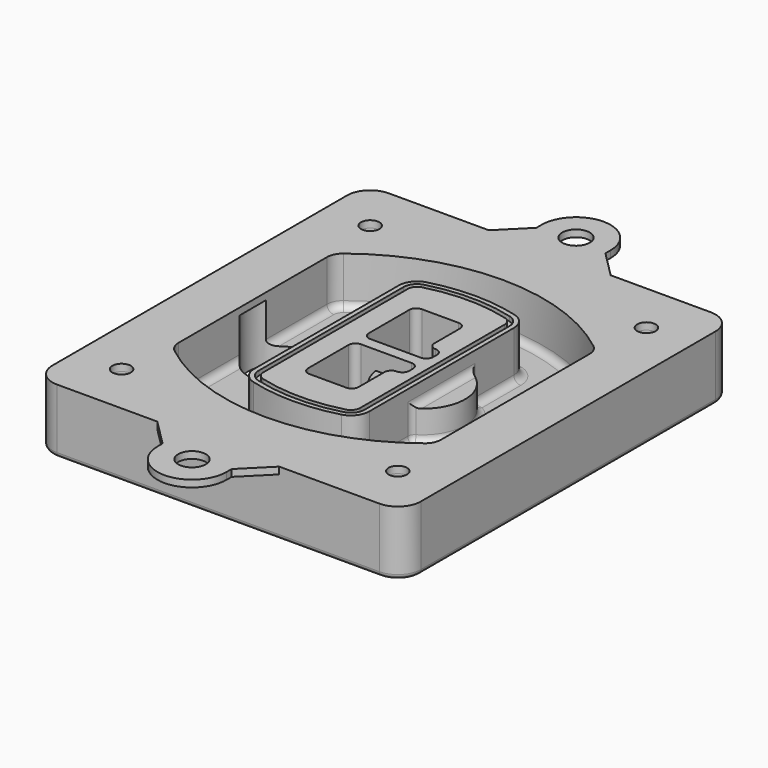
from build123d import *

# Parameters (mm, degrees)
F0_R      = 4
F1_DEPTH  = 25
F2_DEPTH  = 3
F3_DEPTH  = 18
F5_DEPTH  = 21
F6_DEPTH  = 2
F8_DEPTH  = 20
F9_DEPTH  = 16
F10_DEPTH = 25
F7_R      = 6
F7_R_2    = 4
F11_DEPTH = 6
F13_DEPTH = 9
F14_R     = 3
F15_R     = 2
F16_R     = 6
F16_R_2   = 4
F17_DEPTH = 3


with BuildPart() as f1:
    # F0 (on Top) → F1 (new body)
    with BuildSketch(Plane.XY):
        with BuildLine():
            ThreePointArc((-80, -80), (-77.0710678119, -87.0710678119), (-70, -90))
            Line((-70, -90), (70, -90))
            ThreePointArc((70, -90), (77.0710678119, -87.0710678119), (80, -80))
            Line((80, -80), (80, 80))
            ThreePointArc((80, 80), (77.0710678119, 87.0710678119), (70, 90))
            Line((70, 90), (-70, 90))
            ThreePointArc((-70, 90), (-77.0710678119, 87.0710678119), (-80, 80))
            Line((-80, 80), (-80, -80))
        make_face()
        with Locations((-60, -67.5)):
            Circle(F0_R, mode=Mode.SUBTRACT)
        with Locations((60, -67.5)):
            Circle(F0_R, mode=Mode.SUBTRACT)
        with Locations((-60, 67.5)):
            Circle(F0_R, mode=Mode.SUBTRACT)
        with BuildLine():
            ThreePointArc((-64, 40.2934422872), (-62.5820384798, 46.4328484224), (-58.6153846154, 51.3286200352))
            ThreePointArc((-58.6153846154, 51.3286200352), (0, 71.5), (58.6153846154, 51.3286200352))
            ThreePointArc((58.6153846154, 51.3286200352), (62.5820384798, 46.4328484224), (64, 40.2934422872))
            Line((64, 40.2934422872), (64, -40.2934422872))
            ThreePointArc((64, -40.2934422872), (62.5820384798, -46.4328484224), (58.6153846154, -51.3286200352))
            ThreePointArc((58.6153846154, -51.3286200352), (0, -71.5), (-58.6153846154, -51.3286200352))
            ThreePointArc((-58.6153846154, -51.3286200352), (-62.5820384798, -46.4328484224), (-64, -40.2934422872))
            Line((-64, -40.2934422872), (-64, 40.2934422872))
        make_face(mode=Mode.SUBTRACT)
        with Locations((60, 67.5)):
            Circle(F0_R, mode=Mode.SUBTRACT)
        with BuildLine():
            ThreePointArc((58.6153846154, 51.3286200352), (0, 71.5), (-58.6153846154, 51.3286200352))
            ThreePointArc((-58.6153846154, 51.3286200352), (-62.5820384798, 46.4328484224), (-64, 40.2934422872))
            Line((-64, 40.2934422872), (-64, -40.2934422872))
            ThreePointArc((-64, -40.2934422872), (-62.5820384798, -46.4328484224), (-58.6153846154, -51.3286200352))
            ThreePointArc((-58.6153846154, -51.3286200352), (0, -71.5), (58.6153846154, -51.3286200352))
            ThreePointArc((58.6153846154, -51.3286200352), (62.5820384798, -46.4328484224), (64, -40.2934422872))
            Line((64, -40.2934422872), (64, 40.2934422872))
            ThreePointArc((64, 40.2934422872), (62.5820384798, 46.4328484224), (58.6153846154, 51.3286200352))
        make_face()
        with BuildLine():
            Line((-60, -40.2934422872), (-60, 40.2934422872))
            ThreePointArc((-60, 40.2934422872), (-58.9871703427, 44.6787323838), (-56.1538461538, 48.1757121072))
            ThreePointArc((-56.1538461538, 48.1757121072), (0, 67.5), (56.1538461538, 48.1757121072))
            ThreePointArc((56.1538461538, 48.1757121072), (58.9871703427, 44.6787323838), (60, 40.2934422872))
            Line((60, 40.2934422872), (60, -40.2934422872))
            ThreePointArc((60, -40.2934422872), (58.9871703427, -44.6787323838), (56.1538461538, -48.1757121072))
            ThreePointArc((56.1538461538, -48.1757121072), (0, -67.5), (-56.1538461538, -48.1757121072))
            ThreePointArc((-56.1538461538, -48.1757121072), (-58.9871703427, -44.6787323838), (-60, -40.2934422872))
        make_face(mode=Mode.SUBTRACT)
        with BuildLine():
            ThreePointArc((-56.1538461538, 48.1757121072), (-58.9871703427, 44.6787323838), (-60, 40.2934422872))
            Line((-60, 40.2934422872), (-60, -40.2934422872))
            ThreePointArc((-60, -40.2934422872), (-58.9871703427, -44.6787323838), (-56.1538461538, -48.1757121072))
            ThreePointArc((-56.1538461538, -48.1757121072), (0, -67.5), (56.1538461538, -48.1757121072))
            ThreePointArc((56.1538461538, -48.1757121072), (58.9871703427, -44.6787323838), (60, -40.2934422872))
            Line((60, -40.2934422872), (60, 40.2934422872))
            ThreePointArc((60, 40.2934422872), (58.9871703427, 44.6787323838), (56.1538461538, 48.1757121072))
            ThreePointArc((56.1538461538, 48.1757121072), (0, 67.5), (-56.1538461538, 48.1757121072))
        make_face()
        with BuildLine():
            ThreePointArc((54.3076923077, 45.8110311612), (56.2910192399, 43.3631453548), (57, 40.2934422872))
            Line((57, 40.2934422872), (57, -40.2934422872))
            ThreePointArc((57, -40.2934422872), (56.2910192399, -43.3631453548), (54.3076923077, -45.8110311612))
            ThreePointArc((54.3076923077, -45.8110311612), (0, -64.5), (-54.3076923077, -45.8110311612))
            ThreePointArc((-54.3076923077, -45.8110311612), (-56.2910192399, -43.3631453548), (-57, -40.2934422872))
            Line((-57, -40.2934422872), (-57, 40.2934422872))
            ThreePointArc((-57, 40.2934422872), (-56.2910192399, 43.3631453548), (-54.3076923077, 45.8110311612))
            ThreePointArc((-54.3076923077, 45.8110311612), (0, 64.5), (54.3076923077, 45.8110311612))
        make_face(mode=Mode.SUBTRACT)
        with BuildLine():
            Line((57, -40.2934422872), (57, 40.2934422872))
            ThreePointArc((57, 40.2934422872), (56.2910192399, 43.3631453548), (54.3076923077, 45.8110311612))
            ThreePointArc((54.3076923077, 45.8110311612), (0, 64.5), (-54.3076923077, 45.8110311612))
            ThreePointArc((-54.3076923077, 45.8110311612), (-56.2910192399, 43.3631453548), (-57, 40.2934422872))
            Line((-57, 40.2934422872), (-57, -40.2934422872))
            ThreePointArc((-57, -40.2934422872), (-56.2910192399, -43.3631453548), (-54.3076923077, -45.8110311612))
            ThreePointArc((-54.3076923077, -45.8110311612), (0, -64.5), (54.3076923077, -45.8110311612))
            ThreePointArc((54.3076923077, -45.8110311612), (56.2910192399, -43.3631453548), (57, -40.2934422872))
        make_face()
    extrude(amount=-F1_DEPTH)

    # F0 (on Top) → F2 (join)
    with BuildSketch(Plane.XY):
        with BuildLine():
            ThreePointArc((-56.1538461538, 48.1757121072), (-58.9871703427, 44.6787323838), (-60, 40.2934422872))
            Line((-60, 40.2934422872), (-60, -40.2934422872))
            ThreePointArc((-60, -40.2934422872), (-58.9871703427, -44.6787323838), (-56.1538461538, -48.1757121072))
            ThreePointArc((-56.1538461538, -48.1757121072), (0, -67.5), (56.1538461538, -48.1757121072))
            ThreePointArc((56.1538461538, -48.1757121072), (58.9871703427, -44.6787323838), (60, -40.2934422872))
            Line((60, -40.2934422872), (60, 40.2934422872))
            ThreePointArc((60, 40.2934422872), (58.9871703427, 44.6787323838), (56.1538461538, 48.1757121072))
            ThreePointArc((56.1538461538, 48.1757121072), (0, 67.5), (-56.1538461538, 48.1757121072))
        make_face()
        with BuildLine():
            ThreePointArc((54.3076923077, 45.8110311612), (56.2910192399, 43.3631453548), (57, 40.2934422872))
            Line((57, 40.2934422872), (57, -40.2934422872))
            ThreePointArc((57, -40.2934422872), (56.2910192399, -43.3631453548), (54.3076923077, -45.8110311612))
            ThreePointArc((54.3076923077, -45.8110311612), (0, -64.5), (-54.3076923077, -45.8110311612))
            ThreePointArc((-54.3076923077, -45.8110311612), (-56.2910192399, -43.3631453548), (-57, -40.2934422872))
            Line((-57, -40.2934422872), (-57, 40.2934422872))
            ThreePointArc((-57, 40.2934422872), (-56.2910192399, 43.3631453548), (-54.3076923077, 45.8110311612))
            ThreePointArc((-54.3076923077, 45.8110311612), (0, 64.5), (54.3076923077, 45.8110311612))
        make_face(mode=Mode.SUBTRACT)
    extrude(amount=F2_DEPTH)

    # F0 (on Top) → F3 (cut)
    with BuildSketch(Plane.XY):
        with BuildLine():
            Line((57, -40.2934422872), (57, 40.2934422872))
            ThreePointArc((57, 40.2934422872), (56.2910192399, 43.3631453548), (54.3076923077, 45.8110311612))
            ThreePointArc((54.3076923077, 45.8110311612), (0, 64.5), (-54.3076923077, 45.8110311612))
            ThreePointArc((-54.3076923077, 45.8110311612), (-56.2910192399, 43.3631453548), (-57, 40.2934422872))
            Line((-57, 40.2934422872), (-57, -40.2934422872))
            ThreePointArc((-57, -40.2934422872), (-56.2910192399, -43.3631453548), (-54.3076923077, -45.8110311612))
            ThreePointArc((-54.3076923077, -45.8110311612), (0, -64.5), (54.3076923077, -45.8110311612))
            ThreePointArc((54.3076923077, -45.8110311612), (56.2910192399, -43.3631453548), (57, -40.2934422872))
        make_face()
    extrude(amount=-F3_DEPTH, mode=Mode.SUBTRACT)

    # F4 (on face) → F5 (join, through all)
    with BuildSketch(Plane.XY.offset(3)):
        with BuildLine():
            ThreePointArc((-25, -39.2465276821), (-23.3511545998, -44.1109737193), (-19.0842911877, -46.9702398883))
            ThreePointArc((-19.0842911877, -46.9702398883), (0, -49.5), (19.0842911877, -46.9702398883))
            ThreePointArc((19.0842911877, -46.9702398883), (23.3511545998, -44.1109737193), (25, -39.2465276821))
            Line((25, -39.2465276821), (25, 39.2465276821))
            ThreePointArc((25, 39.2465276821), (23.3511545998, 44.1109737193), (19.0842911877, 46.9702398883))
            ThreePointArc((19.0842911877, 46.9702398883), (0, 49.5), (-19.0842911877, 46.9702398883))
            ThreePointArc((-19.0842911877, 46.9702398883), (-23.3511545998, 44.1109737193), (-25, 39.2465276821))
            Line((-25, 39.2465276821), (-25, -39.2465276821))
        make_face()
        with BuildLine():
            ThreePointArc((18.5632183908, 45.0393118368), (21.7633659499, 42.89486221), (23, 39.2465276821))
            Line((23, 39.2465276821), (23, -39.2465276821))
            ThreePointArc((23, -39.2465276821), (21.7633659499, -42.89486221), (18.5632183908, -45.0393118368))
            ThreePointArc((18.5632183908, -45.0393118368), (0, -47.5), (-18.5632183908, -45.0393118368))
            ThreePointArc((-18.5632183908, -45.0393118368), (-21.7633659499, -42.89486221), (-23, -39.2465276821))
            Line((-23, -39.2465276821), (-23, 39.2465276821))
            ThreePointArc((-23, 39.2465276821), (-21.7633659499, 42.89486221), (-18.5632183908, 45.0393118368))
            ThreePointArc((-18.5632183908, 45.0393118368), (0, 47.5), (18.5632183908, 45.0393118368))
        make_face(mode=Mode.SUBTRACT)
        with BuildLine():
            Line((23, -39.2465276821), (23, 39.2465276821))
            ThreePointArc((23, 39.2465276821), (21.7633659499, 42.89486221), (18.5632183908, 45.0393118368))
            ThreePointArc((18.5632183908, 45.0393118368), (0, 47.5), (-18.5632183908, 45.0393118368))
            ThreePointArc((-18.5632183908, 45.0393118368), (-21.7633659499, 42.89486221), (-23, 39.2465276821))
            Line((-23, 39.2465276821), (-23, -39.2465276821))
            ThreePointArc((-23, -39.2465276821), (-21.7633659499, -42.89486221), (-18.5632183908, -45.0393118368))
            ThreePointArc((-18.5632183908, -45.0393118368), (0, -47.5), (18.5632183908, -45.0393118368))
            ThreePointArc((18.5632183908, -45.0393118368), (21.7633659499, -42.89486221), (23, -39.2465276821))
        make_face()
        with BuildLine():
            ThreePointArc((18.0421455939, 43.1083837852), (20.1755772999, 41.6787507007), (21, 39.2465276821))
            Line((21, 39.2465276821), (21, -39.2465276821))
            ThreePointArc((21, -39.2465276821), (20.1755772999, -41.6787507007), (18.0421455939, -43.1083837852))
            ThreePointArc((18.0421455939, -43.1083837852), (0, -45.5), (-18.0421455939, -43.1083837852))
            ThreePointArc((-18.0421455939, -43.1083837852), (-20.1755772999, -41.6787507007), (-21, -39.2465276821))
            Line((-21, -39.2465276821), (-21, 39.2465276821))
            ThreePointArc((-21, 39.2465276821), (-20.1755772999, 41.6787507007), (-18.0421455939, 43.1083837852))
            ThreePointArc((-18.0421455939, 43.1083837852), (0, 45.5), (18.0421455939, 43.1083837852))
        make_face(mode=Mode.SUBTRACT)
        with BuildLine():
            Line((21, -39.2465276821), (21, 39.2465276821))
            ThreePointArc((21, 39.2465276821), (20.1755772999, 41.6787507007), (18.0421455939, 43.1083837852))
            ThreePointArc((18.0421455939, 43.1083837852), (0, 45.5), (-18.0421455939, 43.1083837852))
            ThreePointArc((-18.0421455939, 43.1083837852), (-20.1755772999, 41.6787507007), (-21, 39.2465276821))
            Line((-21, 39.2465276821), (-21, -39.2465276821))
            ThreePointArc((-21, -39.2465276821), (-20.1755772999, -41.6787507007), (-18.0421455939, -43.1083837852))
            ThreePointArc((-18.0421455939, -43.1083837852), (0, -45.5), (18.0421455939, -43.1083837852))
            ThreePointArc((18.0421455939, -43.1083837852), (20.1755772999, -41.6787507007), (21, -39.2465276821))
        make_face()
        with BuildLine():
            Line((-8, -2.5), (14, -2.5))
            ThreePointArc((14, -2.5), (16.1213203436, -3.3786796564), (17, -5.5))
            Line((17, -5.5), (17, -7.5))
            ThreePointArc((17, -7.5), (16.1213203436, -9.6213203436), (14, -10.5))
            ThreePointArc((14, -10.5), (11.8786796564, -11.3786796564), (11, -13.5))
            Line((11, -13.5), (11, -27.5))
            ThreePointArc((11, -27.5), (10.1213203436, -29.6213203436), (8, -30.5))
            Line((8, -30.5), (-8, -30.5))
            ThreePointArc((-8, -30.5), (-10.1213203436, -29.6213203436), (-11, -27.5))
            Line((-11, -27.5), (-11, -5.5))
            ThreePointArc((-11, -5.5), (-10.1213203436, -3.3786796564), (-8, -2.5))
        make_face(mode=Mode.SUBTRACT)
        with BuildLine():
            ThreePointArc((-8, 2.5), (-10.1213203436, 3.3786796564), (-11, 5.5))
            Line((-11, 5.5), (-11, 27.5))
            ThreePointArc((-11, 27.5), (-10.1213203436, 29.6213203436), (-8, 30.5))
            Line((-8, 30.5), (8, 30.5))
            ThreePointArc((8, 30.5), (10.1213203436, 29.6213203436), (11, 27.5))
            Line((11, 27.5), (11, 13.5))
            ThreePointArc((11, 13.5), (11.8786796564, 11.3786796564), (14, 10.5))
            ThreePointArc((14, 10.5), (16.1213203436, 9.6213203436), (17, 7.5))
            Line((17, 7.5), (17, 5.5))
            ThreePointArc((17, 5.5), (16.1213203436, 3.3786796564), (14, 2.5))
            Line((14, 2.5), (-8, 2.5))
        make_face(mode=Mode.SUBTRACT)
    extrude(amount=-F5_DEPTH)

    # F4 (on face) → F6 (cut)
    with BuildSketch(Plane.XY.offset(3)):
        with BuildLine():
            Line((23, -39.2465276821), (23, 39.2465276821))
            ThreePointArc((23, 39.2465276821), (21.7633659499, 42.89486221), (18.5632183908, 45.0393118368))
            ThreePointArc((18.5632183908, 45.0393118368), (0, 47.5), (-18.5632183908, 45.0393118368))
            ThreePointArc((-18.5632183908, 45.0393118368), (-21.7633659499, 42.89486221), (-23, 39.2465276821))
            Line((-23, 39.2465276821), (-23, -39.2465276821))
            ThreePointArc((-23, -39.2465276821), (-21.7633659499, -42.89486221), (-18.5632183908, -45.0393118368))
            ThreePointArc((-18.5632183908, -45.0393118368), (0, -47.5), (18.5632183908, -45.0393118368))
            ThreePointArc((18.5632183908, -45.0393118368), (21.7633659499, -42.89486221), (23, -39.2465276821))
        make_face()
        with BuildLine():
            ThreePointArc((18.0421455939, 43.1083837852), (20.1755772999, 41.6787507007), (21, 39.2465276821))
            Line((21, 39.2465276821), (21, -39.2465276821))
            ThreePointArc((21, -39.2465276821), (20.1755772999, -41.6787507007), (18.0421455939, -43.1083837852))
            ThreePointArc((18.0421455939, -43.1083837852), (0, -45.5), (-18.0421455939, -43.1083837852))
            ThreePointArc((-18.0421455939, -43.1083837852), (-20.1755772999, -41.6787507007), (-21, -39.2465276821))
            Line((-21, -39.2465276821), (-21, 39.2465276821))
            ThreePointArc((-21, 39.2465276821), (-20.1755772999, 41.6787507007), (-18.0421455939, 43.1083837852))
            ThreePointArc((-18.0421455939, 43.1083837852), (0, 45.5), (18.0421455939, 43.1083837852))
        make_face(mode=Mode.SUBTRACT)
    extrude(amount=-F6_DEPTH, mode=Mode.SUBTRACT)

    # F7 (on face) → F8 (join)
    with BuildSketch(Plane(origin=(0, 0, -25), x_dir=(1, 0, 0), z_dir=(0, 0, -1))):
        with BuildLine():
            ThreePointArc((3.28842436, 0), (16.7567035675, 13.4682792075), (30.224982775, 0))
            Line((30.224982775, 0), (35.224982775, 0))
            ThreePointArc((35.224982775, 0), (16.7567035675, 18.4682792075), (-1.71157564, 0))
            Line((-1.71157564, 0), (3.28842436, 0))
        make_face()
        with BuildLine():
            Line((3.28842436, 0), (30.224982775, 0))
            ThreePointArc((30.224982775, 0), (16.7567035675, 13.4682792075), (3.28842436, 0))
        make_face()
        with BuildLine():
            ThreePointArc((3.28842436, 0), (16.7567035675, -13.4682792075), (30.224982775, 0))
            Line((30.224982775, 0), (3.28842436, 0))
        make_face()
        with BuildLine():
            Line((35.224982775, 0), (30.224982775, 0))
            ThreePointArc((30.224982775, 0), (16.7567035675, -13.4682792075), (3.28842436, 0))
            Line((3.28842436, 0), (-1.71157564, 0))
            ThreePointArc((-1.71157564, 0), (16.7567035675, -18.4682792075), (35.224982775, 0))
        make_face()
    extrude(amount=-F8_DEPTH)

    # F7 (on face) → F9 (cut)
    with BuildSketch(Plane(origin=(0, 0, -25), x_dir=(1, 0, 0), z_dir=(0, 0, -1))):
        with BuildLine():
            Line((3.28842436, 0), (30.224982775, 0))
            ThreePointArc((30.224982775, 0), (16.7567035675, 13.4682792075), (3.28842436, 0))
        make_face()
        with BuildLine():
            ThreePointArc((3.28842436, 0), (16.7567035675, -13.4682792075), (30.224982775, 0))
            Line((30.224982775, 0), (3.28842436, 0))
        make_face()
    extrude(amount=-F9_DEPTH, mode=Mode.SUBTRACT)

    # F7 (on face) → F10 (cut)
    with BuildSketch(Plane(origin=(0, 0, -25), x_dir=(1, 0, 0), z_dir=(0, 0, -1))):
        with BuildLine():
            Line((-59.0318229325, 0), (-32.0952645175, 0))
            ThreePointArc((-32.0952645175, 0), (-45.563543725, 13.4682792075), (-59.0318229325, 0))
        make_face()
        with BuildLine():
            ThreePointArc((-59.0318229325, 0), (-45.563543725, -13.4682792075), (-32.0952645175, 0))
            Line((-32.0952645175, 0), (-59.0318229325, 0))
        make_face()
    extrude(amount=-F10_DEPTH, mode=Mode.SUBTRACT)

    # F7 (on face) → F11 (cut)
    with BuildSketch(Plane(origin=(0, 0, -25), x_dir=(1, 0, 0), z_dir=(0, 0, -1))):
        with Locations((60, -67.5)):
            Circle(F7_R)
        with Locations((60, -67.5)):
            Circle(F7_R_2, mode=Mode.SUBTRACT)
        with Locations((60, -67.5)):
            Circle(F7_R)
        with Locations((60, -67.5)):
            Circle(F7_R_2, mode=Mode.SUBTRACT)
        with Locations((-60, -67.5)):
            Circle(F7_R)
        with Locations((-60, -67.5)):
            Circle(F7_R_2, mode=Mode.SUBTRACT)
        with Locations((-60, -67.5)):
            Circle(F7_R)
        with Locations((-60, -67.5)):
            Circle(F7_R_2, mode=Mode.SUBTRACT)
        with Locations((-60, 67.5)):
            Circle(F7_R)
        with Locations((-60, 67.5)):
            Circle(F7_R_2, mode=Mode.SUBTRACT)
        with Locations((-60, 67.5)):
            Circle(F7_R)
        with Locations((-60, 67.5)):
            Circle(F7_R_2, mode=Mode.SUBTRACT)
        with Locations((60, 67.5)):
            Circle(F7_R)
        with Locations((60, 67.5)):
            Circle(F7_R_2, mode=Mode.SUBTRACT)
        with Locations((60, 67.5)):
            Circle(F7_R)
        with Locations((60, 67.5)):
            Circle(F7_R_2, mode=Mode.SUBTRACT)
    extrude(amount=-F11_DEPTH, mode=Mode.SUBTRACT)

    # F12 (on face) → F13 (cut, through all)
    with BuildSketch(Plane(origin=(0, 0, -9), x_dir=(1, 0, 0), z_dir=(0, 0, -1))):
        with BuildLine():
            Line((11, 13.5), (11, 17.5481537753))
            ThreePointArc((11, 17.5481537753), (2.5696536419, 11.8239143813), (-1.5415842455, 2.5))
            Line((-1.5415842455, 2.5), (3.5224848595, 2.5))
            ThreePointArc((3.5224848595, 2.5), (6.1857188154, 8.3455872281), (11.2536447004, 12.2927168648))
            ThreePointArc((11.2536447004, 12.2927168648), (11.0640958889, 12.8831798879), (11, 13.5))
        make_face()
        with BuildLine():
            ThreePointArc((11.2536447004, -12.2927168648), (6.1857188154, -8.3455872281), (3.5224848595, -2.5))
            Line((3.5224848595, -2.5), (-1.5415842455, -2.5))
            ThreePointArc((-1.5415842455, -2.5), (2.5696536419, -11.8239143813), (11, -17.5481537753))
            Line((11, -17.5481537753), (11, -13.5))
            ThreePointArc((11, -13.5), (11.0640958889, -12.8831798879), (11.2536447004, -12.2927168648))
        make_face()
        with BuildLine():
            ThreePointArc((11.2536447004, 12.2927168648), (6.1857188154, 8.3455872281), (3.5224848595, 2.5))
            Line((3.5224848595, 2.5), (14, 2.5))
            ThreePointArc((14, 2.5), (16.1213203436, 3.3786796564), (17, 5.5))
            Line((17, 5.5), (17, 7.5))
            ThreePointArc((17, 7.5), (16.1213203436, 9.6213203436), (14, 10.5))
            ThreePointArc((14, 10.5), (12.3601599782, 10.9878446101), (11.2536447004, 12.2927168648))
        make_face()
        with BuildLine():
            Line((14, -2.5), (3.5224848595, -2.5))
            ThreePointArc((3.5224848595, -2.5), (6.1857188154, -8.3455872281), (11.2536447004, -12.2927168648))
            ThreePointArc((11.2536447004, -12.2927168648), (12.3601599782, -10.9878446101), (14, -10.5))
            ThreePointArc((14, -10.5), (16.1213203436, -9.6213203436), (17, -7.5))
            Line((17, -7.5), (17, -5.5))
            ThreePointArc((17, -5.5), (16.1213203436, -3.3786796564), (14, -2.5))
        make_face()
    extrude(amount=F13_DEPTH, mode=Mode.SUBTRACT)

    # F14
    f14_edges = [f1.edges().sort_by_distance(p)[0] for p in [
        (-57, -23.703476, -18),
        (-57, 23.703476, -18),
        (25, 0, -5),
        (25, 16.526506, -11.5),
        (25, -16.526506, -11.5),
        (25, -27.886517, -18),
        (35.224983, 0, -18),
    ]]
    fillet(f14_edges, radius=F14_R)

    # F15
    f15_edges = [f1.edges().sort_by_distance(p)[0] for p in [
        (0, -90, -25),
    ]]
    fillet(f15_edges, radius=F15_R)

    # F16 (on face) → F17 (join, through all)
    with BuildSketch(Plane.XY):
        with BuildLine():
            Line((15, 101.4723697625), (15, 104.25))
            ThreePointArc((15, 104.25), (0, 119.25), (-15, 104.25))
            Line((-15, 104.25), (-15, 101.4723697625))
            Line((-15, 101.4723697625), (-26.4723697625, 90))
            Line((-26.4723697625, 90), (26.4723697625, 90))
            Line((26.4723697625, 90), (15, 101.4723697625))
        make_face()
        with Locations((0, 104.25)):
            Circle(F16_R, mode=Mode.SUBTRACT)
        with BuildLine():
            Line((70, 90), (26.4723697625, 90))
            Line((26.4723697625, 90), (-26.4723697625, 90))
            Line((-26.4723697625, 90), (-70, 90))
            ThreePointArc((-70, 90), (-77.0710678119, 87.0710678119), (-80, 80))
            Line((-80, 80), (-80, -80))
            ThreePointArc((-80, -80), (-77.0710678119, -87.0710678119), (-70, -90))
            Line((-70, -90), (-26.4723697625, -90))
            Line((-26.4723697625, -90), (26.4723697625, -90))
            Line((26.4723697625, -90), (70, -90))
            ThreePointArc((70, -90), (77.0710678119, -87.0710678119), (80, -80))
            Line((80, -80), (80, 80))
            ThreePointArc((80, 80), (77.0710678119, 87.0710678119), (70, 90))
        make_face()
        with Locations((-60, -67.5)):
            Circle(F16_R_2, mode=Mode.SUBTRACT)
        with Locations((60, -67.5)):
            Circle(F16_R_2, mode=Mode.SUBTRACT)
        with Locations((-60, 67.5)):
            Circle(F16_R_2, mode=Mode.SUBTRACT)
        with BuildLine():
            ThreePointArc((-60, 40.2934422872), (-58.9871703427, 44.6787323838), (-56.1538461538, 48.1757121072))
            ThreePointArc((-56.1538461538, 48.1757121072), (0, 67.5), (56.1538461538, 48.1757121072))
            ThreePointArc((56.1538461538, 48.1757121072), (58.9871703427, 44.6787323838), (60, 40.2934422872))
            Line((60, 40.2934422872), (60, -40.2934422872))
            ThreePointArc((60, -40.2934422872), (58.9871703427, -44.6787323838), (56.1538461538, -48.1757121072))
            ThreePointArc((56.1538461538, -48.1757121072), (0, -67.5), (-56.1538461538, -48.1757121072))
            ThreePointArc((-56.1538461538, -48.1757121072), (-58.9871703427, -44.6787323838), (-60, -40.2934422872))
            Line((-60, -40.2934422872), (-60, 40.2934422872))
        make_face(mode=Mode.SUBTRACT)
        with Locations((60, 67.5)):
            Circle(F16_R_2, mode=Mode.SUBTRACT)
        with BuildLine():
            Line((15, -101.4723697625), (26.4723697625, -90))
            Line((26.4723697625, -90), (-26.4723697625, -90))
            Line((-26.4723697625, -90), (-15, -101.4723697625))
            Line((-15, -101.4723697625), (-15, -104.25))
            ThreePointArc((-15, -104.25), (0, -119.25), (15, -104.25))
            Line((15, -104.25), (15, -101.4723697625))
        make_face()
        with Locations((0, -104.25)):
            Circle(F16_R, mode=Mode.SUBTRACT)
    extrude(amount=F17_DEPTH)


solid = f1.part
